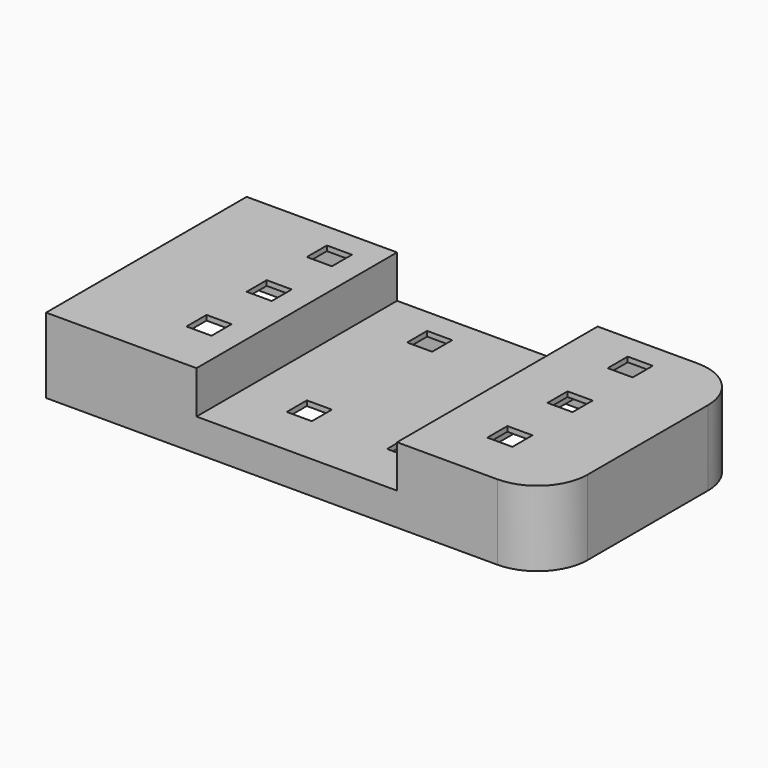
from build123d import *

# Parameters (mm, degrees)
F0_W     = 100
F0_H     = 50
F1_DEPTH = 15
F2_W     = 5
F2_H     = 5
F3_DEPTH = 8.5
F4_DEPTH = 15.001
F5_W     = 28
F5_H     = 48
F5_W_2   = 5
F5_H_2   = 5
F5_W_3   = 29
F6_DEPTH = 14
F5_W_4   = 42
F7_DEPTH = 5.5
F8_R     = 9
F9_R     = 10


with BuildPart() as f1:
    # F0 (on Top) → F1 (new body)
    with BuildSketch(Plane.XY):
        with Locations((-50, 25)):
            Rectangle(F0_W, F0_H)
    extrude(amount=F1_DEPTH)

    # F2 (on face) → F3 (cut)
    with BuildSketch(Plane.XY.offset(15)):
        Polygon((-30, 45), (-30, 50), (-70, 50), (-70, 0), (-30, 0), align=None)
        with Locations((-57.5, 12.5)):
            Rectangle(F2_W, F2_H, mode=Mode.SUBTRACT)
        with Locations((-37.5, 12.5)):
            Rectangle(F2_W, F2_H, mode=Mode.SUBTRACT)
        with Locations((-57.5, 42.5)):
            Rectangle(F2_W, F2_H, mode=Mode.SUBTRACT)
        with Locations((-37.5, 42.5)):
            Rectangle(F2_W, F2_H, mode=Mode.SUBTRACT)
    extrude(amount=-F3_DEPTH, mode=Mode.SUBTRACT)

    # F2 (on face) → F4 (cut, through all)
    with BuildSketch(Plane.XY.offset(15)):
        with Locations((-77.5, 42.5)):
            Rectangle(F2_W, F2_H)
        with Locations((-77.5, 27.5)):
            Rectangle(F2_W, F2_H)
        with Locations((-77.5, 12.5)):
            Rectangle(F2_W, F2_H)
        with Locations((-57.5, 12.5)):
            Rectangle(F2_W, F2_H)
        with Locations((-57.5, 42.5)):
            Rectangle(F2_W, F2_H)
        with Locations((-37.5, 42.5)):
            Rectangle(F2_W, F2_H)
        with Locations((-37.5, 12.5)):
            Rectangle(F2_W, F2_H)
        with Locations((-17.5, 12.5)):
            Rectangle(F2_W, F2_H)
        with Locations((-17.5, 27.5)):
            Rectangle(F2_W, F2_H)
        with Locations((-17.5, 42.5)):
            Rectangle(F2_W, F2_H)
    extrude(amount=-F4_DEPTH, mode=Mode.SUBTRACT)

    # F5 (on face) → F6 (cut)
    with BuildSketch(Plane(origin=(0, 0, 0), x_dir=(1, 0, 0), z_dir=(0, 0, -1))):
        with Locations((-15, -25)):
            Rectangle(F5_W, F5_H)
        with Locations((-17.5, -42.5)):
            Rectangle(F5_W_2, F5_H_2, mode=Mode.SUBTRACT)
        with Locations((-17.5, -27.5)):
            Rectangle(F5_W_2, F5_H_2, mode=Mode.SUBTRACT)
        with Locations((-17.5, -12.5)):
            Rectangle(F5_W_2, F5_H_2, mode=Mode.SUBTRACT)
        with Locations((-85.5, -25)):
            Rectangle(F5_W_3, F5_H)
        with Locations((-77.5, -42.5)):
            Rectangle(F5_W_2, F5_H_2, mode=Mode.SUBTRACT)
        with Locations((-77.5, -27.5)):
            Rectangle(F5_W_2, F5_H_2, mode=Mode.SUBTRACT)
        with Locations((-77.5, -12.5)):
            Rectangle(F5_W_2, F5_H_2, mode=Mode.SUBTRACT)
    extrude(amount=-F6_DEPTH, mode=Mode.SUBTRACT)

    # F5 (on face) → F7 (cut)
    with BuildSketch(Plane(origin=(0, 0, 0), x_dir=(1, 0, 0), z_dir=(0, 0, -1))):
        with Locations((-50, -25)):
            Rectangle(F5_W_4, F5_H)
        with Locations((-57.5, -42.5)):
            Rectangle(F5_W_2, F5_H_2, mode=Mode.SUBTRACT)
        with Locations((-37.5, -42.5)):
            Rectangle(F5_W_2, F5_H_2, mode=Mode.SUBTRACT)
        with Locations((-57.5, -12.5)):
            Rectangle(F5_W_2, F5_H_2, mode=Mode.SUBTRACT)
        with Locations((-37.5, -12.5)):
            Rectangle(F5_W_2, F5_H_2, mode=Mode.SUBTRACT)
    extrude(amount=-F7_DEPTH, mode=Mode.SUBTRACT)

    # F8
    f8_edges = [f1.edges().sort_by_distance(p)[0] for p in [
        (-1, 49, 7),
        (-1, 1, 7),
    ]]
    fillet(f8_edges, radius=F8_R)

    # F9
    f9_edges = [f1.edges().sort_by_distance(p)[0] for p in [
        (0, 50, 7.5),
        (0, 0, 7.5),
    ]]
    fillet(f9_edges, radius=F9_R)


solid = f1.part
